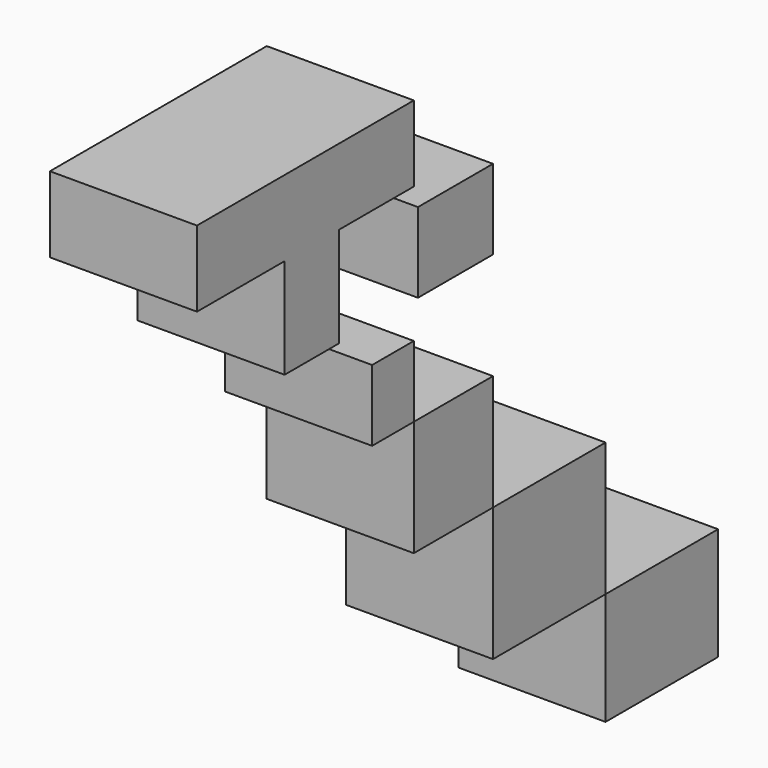
from build123d import *

# Parameters (mm, degrees)
F0_W     = 18.9157426357
F0_H     = 13.0982249975
F0_W_2   = 11.6984546185
F0_H_2   = 17.2792971134
F1_DEPTH = 25.4
F0_W_3   = 24.296849966
F0_H_3   = 19.4220989943
F0_W_4   = 24.2968201637
F0_H_4   = 23.0589210987
F0_W_5   = 17.0978307724
F0_H_5   = 19.9789553881
F0_W_6   = 8.998811245
F0_H_6   = 12.2926384211
F0_W_7   = 16.1979496479
F0_H_7   = 13.7916654348


with BuildPart() as f1:
    # F0 (on Right) → F1 (new body)
    with BuildSketch(Plane.YZ):
        with Locations((-431.5408319235, 238.8794645667)):
            Rectangle(F0_W, F0_H)
        Polygon((-394.1865861416, 245.4285770655), (-422.0829606056, 245.4285770655), (-422.0829606056, 232.3303520679), (-410.3845059872, 232.3303520679), (-394.1865861416, 232.3303520679), align=None)
        with Locations((-416.2337332964, 223.6907035112)):
            Rectangle(F0_W_2, F0_H_2)
    extrude(amount=F1_DEPTH)


with BuildPart() as f1b:
    # F0 (on Right) → F1, piece 2 (new body)
    with BuildSketch(Plane.YZ):
        with Locations((-340.6435102224, 143.8122168183)):
            Rectangle(F0_W_3, F0_H_3)
    extrude(amount=F1_DEPTH)


with BuildPart() as f1c:
    # F0 (on Right) → F1, piece 3 (new body)
    with BuildSketch(Plane.YZ):
        with Locations((-364.9403452873, 165.0527268648)):
            Rectangle(F0_W_4, F0_H_4)
    extrude(amount=F1_DEPTH)


with BuildPart() as f1d:
    # F0 (on Right) → F1, piece 4 (new body)
    with BuildSketch(Plane.YZ):
        with Locations((-385.6376707554, 186.5716651082)):
            Rectangle(F0_W_5, F0_H_5)
    extrude(amount=F1_DEPTH)


with BuildPart() as f1e:
    # F0 (on Right) → F1, piece 5 (new body)
    with BuildSketch(Plane.YZ):
        with Locations((-398.6859917641, 202.7074620128)):
            Rectangle(F0_W_6, F0_H_6)
    extrude(amount=F1_DEPTH)


with BuildPart() as f1f:
    # F0 (on Right) → F1, piece 6 (new body)
    with BuildSketch(Plane.YZ):
        with Locations((-385.1877301931, 221.9468876719)):
            Rectangle(F0_W_7, F0_H_7)
    extrude(amount=F1_DEPTH)


solid = Compound([f1.part, f1b.part, f1c.part, f1d.part, f1e.part, f1f.part])
